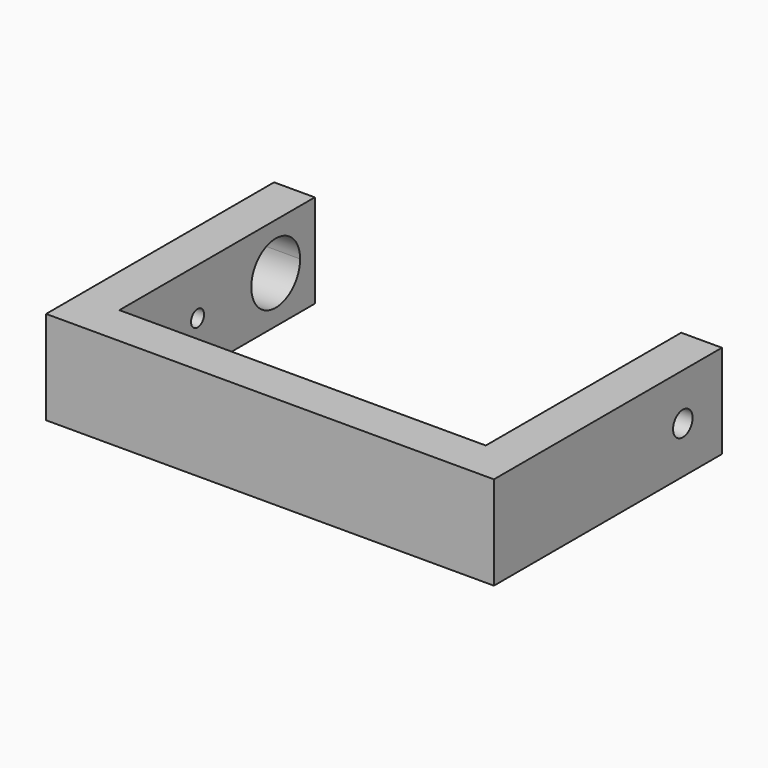
from build123d import *

# Parameters (mm, degrees)
F1_DEPTH = 11.5
F3_DEPTH = 25
F4_DEPTH = 2.5
F6_DEPTH = 25


with BuildPart() as f1:
    # F0 (on Top) → F1 (new body)
    with BuildSketch(Plane.XY):
        Polygon((21.6838430613, 0), (-23.3161569387, 0), (-23.3161569387, 30), (-28.3161569387, 30), (-28.3161569387, -5), (26.6838430613, -5), (26.6838430613, 30), (21.6838430613, 30), align=None)
    extrude(amount=F1_DEPTH)

    # F2 (on face) → F3 (cut)
    with BuildSketch(Plane(origin=(-28.3161569387, 0, 0), x_dir=(0, -1, 0), z_dir=(-1, 0, 0))):
        with BuildLine():
            ThreePointArc((-21.75, 2.75), (-20.6458980338, 4.0729490169), (-20.25, 5.75))
            Line((-20.25, 5.75), (-24.0342449397, 5.75))
            Line((-24.0342449397, 5.75), (-24.0342449397, 2.75))
            Line((-24.0342449397, 2.75), (-21.75, 2.75))
        make_face()
        with BuildLine():
            Line((-24.0342449397, 5.75), (-20.25, 5.75))
            ThreePointArc((-20.25, 5.75), (-20.6458980338, 7.4270509831), (-21.75, 8.75))
            Line((-21.75, 8.75), (-24.0342449397, 8.75))
            Line((-24.0342449397, 8.75), (-24.0342449397, 5.75))
        make_face()
        with BuildLine():
            Line((-24.0342449397, 8.75), (-21.75, 8.75))
            ThreePointArc((-21.75, 8.75), (-25.6770509831, 9.1041019662), (-27.75, 5.75))
            Line((-27.75, 5.75), (-24.0342449397, 5.75))
            Line((-24.0342449397, 5.75), (-24.0342449397, 8.75))
        make_face()
        with BuildLine():
            ThreePointArc((-27.75, 5.75), (-25.6770509831, 2.3958980338), (-21.75, 2.75))
            Line((-21.75, 2.75), (-24.0342449397, 2.75))
            Line((-24.0342449397, 2.75), (-24.0342449397, 5.75))
            Line((-24.0342449397, 5.75), (-27.75, 5.75))
        make_face()
        with BuildLine():
            ThreePointArc((-13, 5.75), (-12, 4.75), (-11, 5.75))
            Line((-11, 5.75), (-13, 5.75))
        make_face()
        with BuildLine():
            Line((-13, 5.75), (-11, 5.75))
            ThreePointArc((-11, 5.75), (-12, 6.75), (-13, 5.75))
        make_face()
    extrude(amount=-F3_DEPTH, mode=Mode.SUBTRACT)

    # F2 (on face) → F4 (cut)
    with BuildSketch(Plane(origin=(-28.3161569387, 0, 0), x_dir=(0, -1, 0), z_dir=(-1, 0, 0))):
        with BuildLine():
            Line((-6, 5.75), (-11, 5.75))
            ThreePointArc((-11, 5.75), (-12, 4.75), (-13, 5.75))
            Line((-13, 5.75), (-20.25, 5.75))
            ThreePointArc((-20.25, 5.75), (-20.6458980338, 4.0729490169), (-21.75, 2.75))
            Line((-21.75, 2.75), (-6, 2.75))
            Line((-6, 2.75), (-6, 5.75))
        make_face()
        with BuildLine():
            ThreePointArc((-13, 5.75), (-12, 6.75), (-11, 5.75))
            Line((-11, 5.75), (-6, 5.75))
            Line((-6, 5.75), (-6, 8.75))
            Line((-6, 8.75), (-21.75, 8.75))
            ThreePointArc((-21.75, 8.75), (-20.6458980338, 7.4270509831), (-20.25, 5.75))
            Line((-20.25, 5.75), (-13, 5.75))
        make_face()
    extrude(amount=-F4_DEPTH, mode=Mode.SUBTRACT)

    # F5 (on face) → F6 (cut)
    with BuildSketch(Plane.YZ.offset(26.6838430613)):
        with BuildLine():
            Line((22.5, 5.75), (25.5, 5.75))
            ThreePointArc((25.5, 5.75), (24, 7.25), (22.5, 5.75))
        make_face()
        with BuildLine():
            ThreePointArc((22.5, 5.75), (24, 4.25), (25.5, 5.75))
            Line((25.5, 5.75), (22.5, 5.75))
        make_face()
    extrude(amount=-F6_DEPTH, mode=Mode.SUBTRACT)


solid = f1.part
